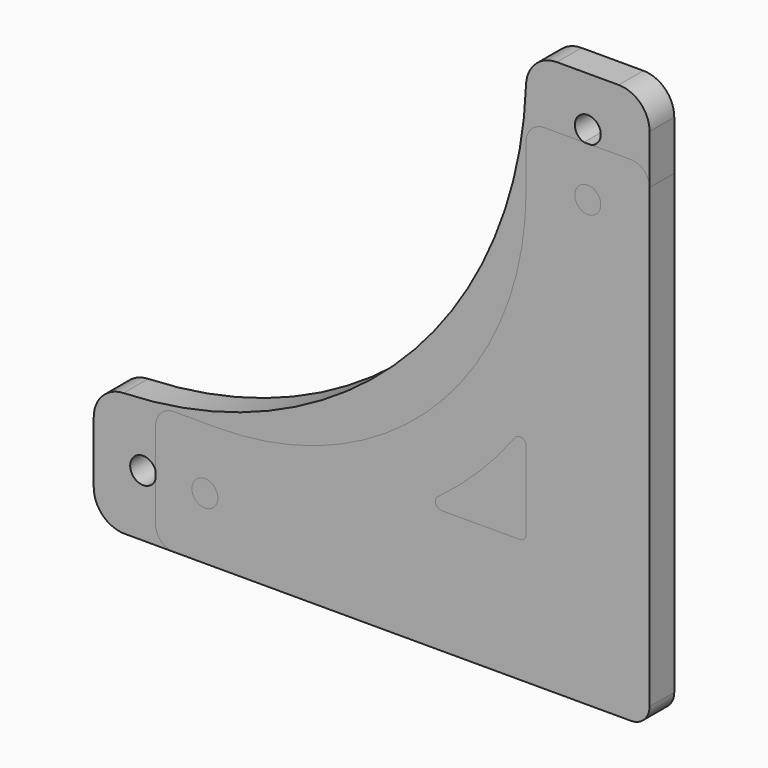
from build123d import *

# Parameters (mm, degrees)
F0_R     = 2.1
F1_DEPTH = 5
F2_R     = 2.1
F3_DEPTH = 5


with BuildPart() as f1:
    # F0 (on Front) → F1 (new body)
    with BuildSketch(Plane.XZ):
        with BuildLine():
            ThreePointArc((-75.178235, 10), (-78.597998, 8.475124), (-80, 5.003178))
            Line((-80, 5.003178), (-80, 0))
            Line((-80, 0), (-80, -5))
            ThreePointArc((-80, -5), (-78.535534, -8.535534), (-75, -10))
            Line((-75, -10), (5, -10))
            ThreePointArc((5, -10), (8.535534, -8.535534), (10, -5))
            Line((10, -5), (10, 75))
            ThreePointArc((10, 75), (8.535534, 78.535534), (5, 80))
            Line((5, 80), (0, 80))
            Line((0, 80), (-5.003178, 80))
            ThreePointArc((-5.003178, 80), (-8.475124, 78.597998), (-10, 75.178235))
            ThreePointArc((-10, 75.178235), (-29.766, 29.766), (-75.178235, 10))
        make_face()
        with Locations((-72, 0)):
            Circle(F0_R, mode=Mode.SUBTRACT)
        with Locations((-32, 0)):
            Circle(F0_R, mode=Mode.SUBTRACT)
        Circle(F0_R, mode=Mode.SUBTRACT)
        with Locations((0, 32)):
            Circle(F0_R, mode=Mode.SUBTRACT)
        with Locations((0, 72)):
            Circle(F0_R, mode=Mode.SUBTRACT)
    extrude(amount=F1_DEPTH)


with BuildPart() as f3:
    # F2 (on Front) → F3 (new body)
    with BuildSketch(Plane.XZ):
        with BuildLine():
            Line((7, 70), (0, 70))
            Line((0, 70), (-7, 70))
            ThreePointArc((-7, 70), (-9.12132, 69.12132), (-10, 67))
            Line((-10, 67), (-10, 60))
            ThreePointArc((-10, 60), (-24.644661, 24.644661), (-60, 10))
            Line((-60, 10), (-67, 10))
            ThreePointArc((-67, 10), (-69.12132, 9.12132), (-70, 7))
            Line((-70, 7), (-70, 0))
            Line((-70, 0), (-70, -7))
            ThreePointArc((-70, -7), (-69.12132, -9.12132), (-67, -10))
            Line((-67, -10), (7, -10))
            ThreePointArc((7, -10), (9.12132, -9.12132), (10, -7))
            Line((10, -7), (10, 67))
            ThreePointArc((10, 67), (9.12132, 69.12132), (7, 70))
        make_face()
        with Locations((-62, 0)):
            Circle(F2_R, mode=Mode.SUBTRACT)
        with BuildLine():
            ThreePointArc((-23.668196, 10), (-24.617743, 10.686375), (-24.263799, 11.803279))
            ThreePointArc((-24.263799, 11.803279), (-17.573593, 17.573593), (-11.803279, 24.263799))
            ThreePointArc((-11.803279, 24.263799), (-10.686375, 24.617743), (-10, 23.668196))
            Line((-10, 23.668196), (-10, 11))
            ThreePointArc((-10, 11), (-10.292893, 10.292893), (-11, 10))
            Line((-11, 10), (-23.668196, 10))
        make_face(mode=Mode.SUBTRACT)
        with Locations((0, 62)):
            Circle(F2_R, mode=Mode.SUBTRACT)
    extrude(amount=F3_DEPTH)


solid = Compound([f1.part, f3.part])
